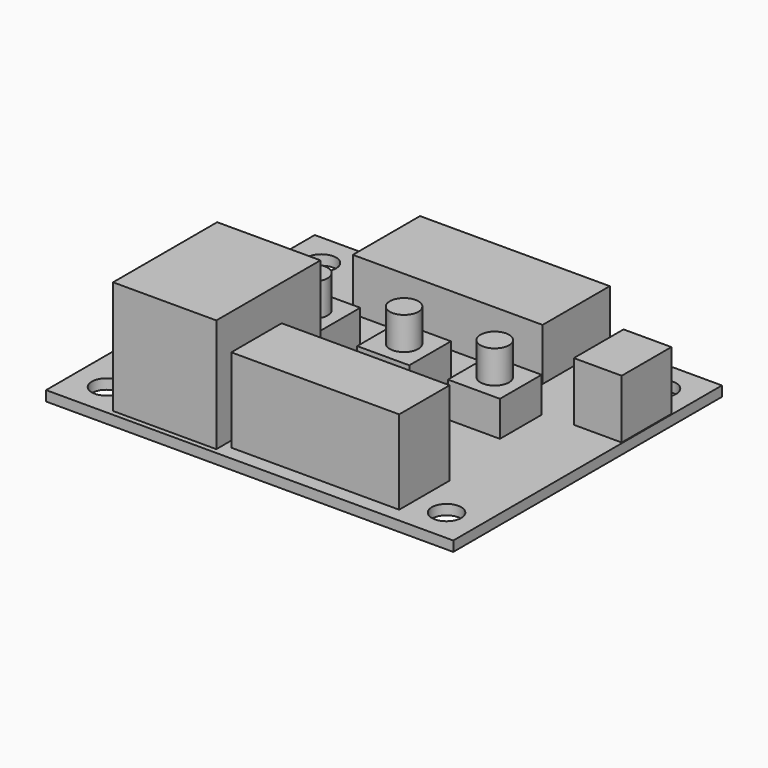
from build123d import *

# Parameters (mm, degrees)
F0_W      = 48.5
F0_H      = 40
F0_R      = 1.75
F1_DEPTH  = 1.2
F2_W      = 22.6
F2_H      = 10
F3_DEPTH  = 6.2
F4_W      = 5.7
F4_H      = 7.4
F5_DEPTH  = 7
F6_W      = 20
F6_H      = 7.5
F7_DEPTH  = 10
F8_W      = 12.3
F8_H      = 15.5
F9_DEPTH  = 13.5
F10_W     = 6.2
F10_H     = 6.2
F10_R     = 1.7
F11_DEPTH = 4.2
F12_DEPTH = 8.1


with BuildPart() as f1:
    # F0 (on Top) → F1 (new body)
    with BuildSketch(Plane.XY):
        Rectangle(F0_W, F0_H)
        with Locations((-20.25, -16)):
            Circle(F0_R, mode=Mode.SUBTRACT)
        with Locations((20.25, -16)):
            Circle(F0_R, mode=Mode.SUBTRACT)
        with Locations((-20.25, 16)):
            Circle(F0_R, mode=Mode.SUBTRACT)
        with Locations((20.25, 16)):
            Circle(F0_R, mode=Mode.SUBTRACT)
    extrude(amount=F1_DEPTH)

    # F2 (on face) → F3 (join)
    with BuildSketch(Plane.XY.offset(1.2)):
        with Locations((-0.25, 14.8)):
            Rectangle(F2_W, F2_H)
    extrude(amount=F3_DEPTH)

    # F4 (on face) → F5 (join)
    with BuildSketch(Plane.XY.offset(1.2)):
        with Locations((21.3, 8.9)):
            Rectangle(F4_W, F4_H)
    extrude(amount=F5_DEPTH)

    # F6 (on face) → F7 (join)
    with BuildSketch(Plane.XY.offset(1.2)):
        with Locations((6.45, -14.55)):
            Rectangle(F6_W, F6_H)
    extrude(amount=F7_DEPTH)

    # F8 (on face) → F9 (join)
    with BuildSketch(Plane.XY.offset(1.2)):
        with Locations((-10.6, -11.65)):
            Rectangle(F8_W, F8_H)
    extrude(amount=F9_DEPTH)

    # F10 (on face) → F11 (join)
    with BuildSketch(Plane.XY.offset(1.2)):
        with Locations((11.75, 1.8)):
            Rectangle(F10_W, F10_H)
        with Locations((11.75, 1.8)):
            Circle(F10_R, mode=Mode.SUBTRACT)
        with Locations((0.95, 1.8)):
            Rectangle(F10_W, F10_H)
        with Locations((0.95, 1.8)):
            Circle(F10_R, mode=Mode.SUBTRACT)
        with Locations((-9.85, 1.8)):
            Rectangle(F10_W, F10_H)
        with Locations((-9.85, 1.8)):
            Circle(F10_R, mode=Mode.SUBTRACT)
    extrude(amount=F11_DEPTH)

    # F12 (add): faces of the model
    f12_faces = [f1.faces().sort_by_distance(p)[0] for p in [
        (-9.85, 1.8, 1.2),
        (0.95, 1.8, 1.2),
        (11.75, 1.8, 1.2),
    ]]
    extrude(f12_faces, amount=F12_DEPTH)


solid = f1.part
